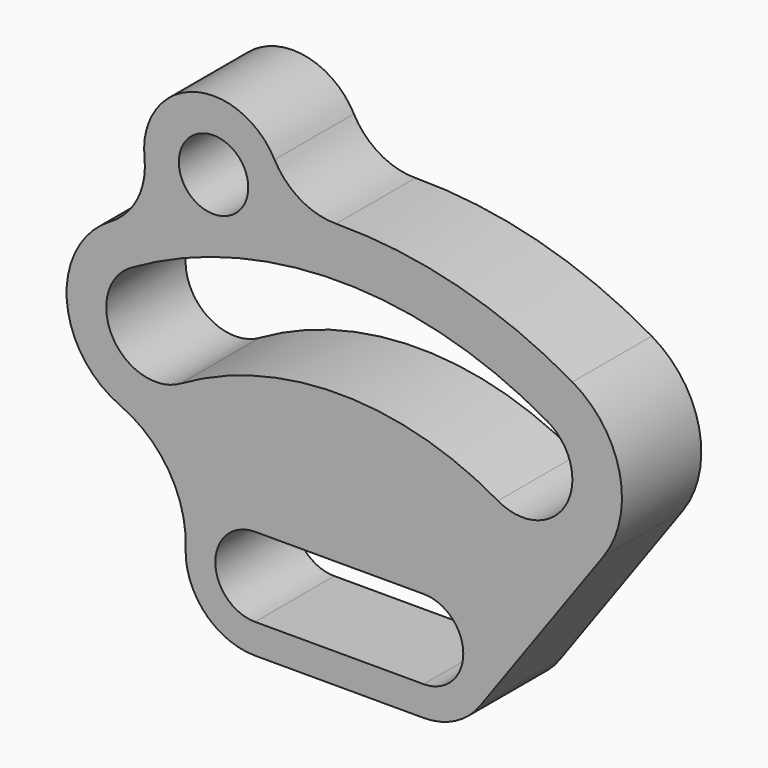
from build123d import *

# Parameters (mm, degrees)
F0_R     = 3.5
F1_DEPTH = 10


with BuildPart() as f1:
    # F0 (on Front) → F1 (new body)
    with BuildSketch(Plane.XZ):
        with BuildLine():
            ThreePointArc((26.618507, 26.204289), (28.276419, 34.145708), (23.5, 40.703194))
            ThreePointArc((23.5, 40.703194), (12.007942, 45.440173), (-0.324, 46.998883))
            ThreePointArc((-0.324, 46.998883), (-3.933457, 47.972288), (-6.527194, 50.664541))
            ThreePointArc((-6.527194, 50.664541), (-14.761262, 54.014468), (-19.642337, 46.585001))
            ThreePointArc((-19.642337, 46.585001), (-20.35066, 42.690988), (-23.057679, 39.803582))
            ThreePointArc((-23.057679, 39.803582), (-27.483736, 31.502119), (-22.093757, 23.791582))
            ThreePointArc((-22.093757, 23.791582), (-17.168574, 19.55323), (-15.494605, 13.274784))
            ThreePointArc((-15.494605, 13.274784), (-13.545963, 8.148376), (-8.5, 6))
            Line((-8.5, 6), (8.5, 6))
            ThreePointArc((8.5, 6), (11.693009, 6.770659), (14.182955, 8.912945))
            Line((14.182955, 8.912945), (26.618507, 26.204289))
        make_face()
        with BuildLine():
            ThreePointArc((8.5, 17), (12.5, 13), (8.5, 9))
            Line((8.5, 9), (-2.755437, 9))
            Line((-2.755437, 9), (-8.5, 9))
            ThreePointArc((-8.5, 9), (-12.5, 13), (-8.5, 17))
            Line((-8.5, 17), (8.5, 17))
        make_face(mode=Mode.SUBTRACT)
        with BuildLine():
            ThreePointArc((21, 36.373067), (22.830127, 29.54294), (16, 27.712813))
            ThreePointArc((16, 27.712813), (0, 32), (-16, 27.712813))
            ThreePointArc((-16, 27.712813), (-22.830127, 29.54294), (-21, 36.373067))
            ThreePointArc((-21, 36.373067), (0, 42), (21, 36.373067))
        make_face(mode=Mode.SUBTRACT)
        with Locations((-12.682133, 47.330365)):
            Circle(F0_R, mode=Mode.SUBTRACT)
    extrude(amount=F1_DEPTH)


solid = f1.part
